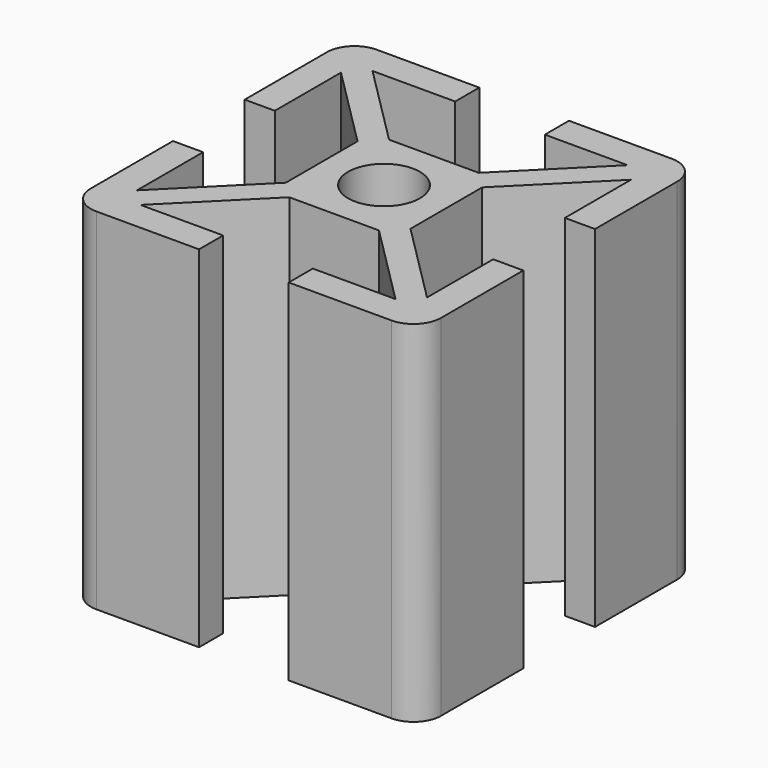
from build123d import *

# Parameters (mm, degrees)
SKETCH_W     = 25.4
SKETCH_H     = 25.4
SKETCH_R     = 2.6035
PAD_DEPTH    = 25.4
POCKET_DEPTH = 25.401
FILLET002_R  = 2


with BuildPart() as part:
    # Sketch → Pad (new body)
    with BuildSketch(Plane.XY):
        Rectangle(SKETCH_W, SKETCH_H)
        Circle(SKETCH_R, mode=Mode.SUBTRACT)
    extrude(amount=PAD_DEPTH)

    # Sketch001 (on Face7 of Pad) → Pocket (cut, through all)
    with BuildSketch(Plane.XY.offset(25.4)):
        Polygon((-3.2512, 4.5212), (3.2512, 4.5212), (9.2456, 10.5156), (3.2512, 10.5156), (3.2512, 12.7), (-3.2512, 12.7), (-3.2512, 10.5156), (-9.2456, 10.5156), align=None)
        Polygon((4.5212, 3.2512), (4.5212, -3.2512), (10.5156, -9.2456), (10.5156, -3.2512), (12.7, -3.2512), (12.7, 3.2512), (10.5156, 3.2512), (10.5156, 9.2456), align=None)
        Polygon((-3.2512, -4.5212), (3.2512, -4.5212), (9.2456, -10.5156), (3.2512, -10.5156), (3.2512, -12.7), (-3.2512, -12.7), (-3.2512, -10.5156), (-9.2456, -10.5156), align=None)
        Polygon((-4.5212, 3.2512), (-4.5212, -3.2512), (-10.5156, -9.2456), (-10.5156, -3.2512), (-12.7, -3.2512), (-12.7, 3.2512), (-10.5156, 3.2512), (-10.5156, 9.2456), align=None)
    extrude(amount=-POCKET_DEPTH, mode=Mode.SUBTRACT)

    # Fillet002
    fillet002_edges = [part.edges().sort_by_distance(p)[0] for p in [
        (12.7, -12.7, 12.7),
        (12.7, 12.7, 12.7),
        (-12.7, 12.7, 12.7),
        (-12.7, -12.7, 12.7),
    ]]
    fillet(fillet002_edges, radius=FILLET002_R)


solid = part.part
